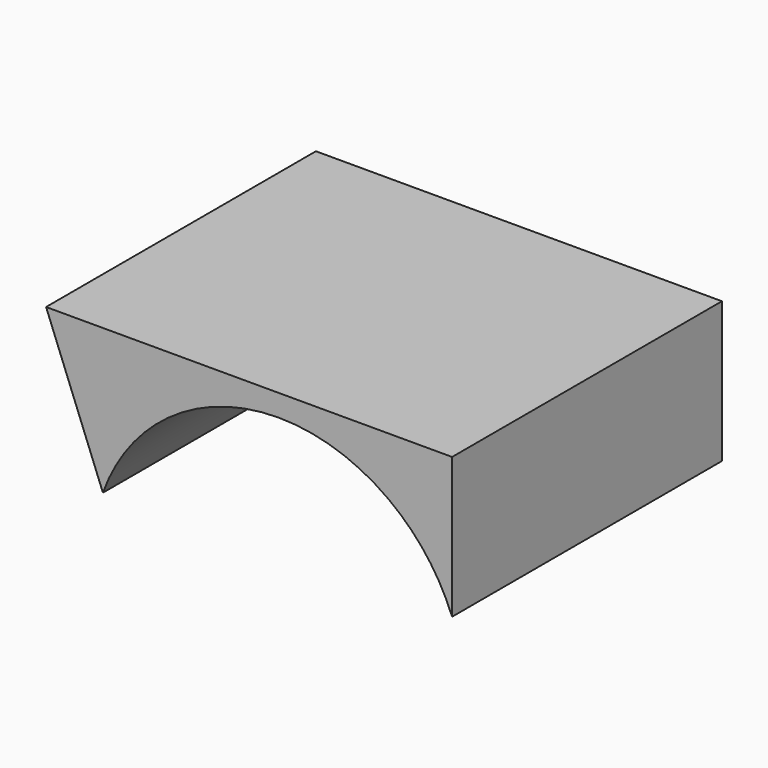
from build123d import *

# Parameters (mm, degrees)
F1_DEPTH = 45.72


with BuildPart() as f1:
    # F0 (on Front) → F1 (new body)
    with BuildSketch(Plane.XZ):
        with BuildLine():
            ThreePointArc((-15.079527, -3.008492), (-0.103711, 1.906476), (14.872104, -3.008492))
            ThreePointArc((14.872104, -3.008492), (19.960902, -7.999812), (23.453603, -14.213521))
            Line((23.453603, -14.213521), (23.453603, -3.008492))
            Line((23.453603, -3.008492), (23.453603, 4.856735))
            Line((23.453603, 4.856735), (-23.453603, 4.856735))
            Line((-23.453603, 4.856735), (-31.585181, 4.856735))
            Line((-31.585181, 4.856735), (-23.882771, -14.806102))
            ThreePointArc((-23.882771, -14.806102), (-20.359106, -8.252176), (-15.079527, -3.008492))
        make_face()
    extrude(amount=-F1_DEPTH)


solid = f1.part
